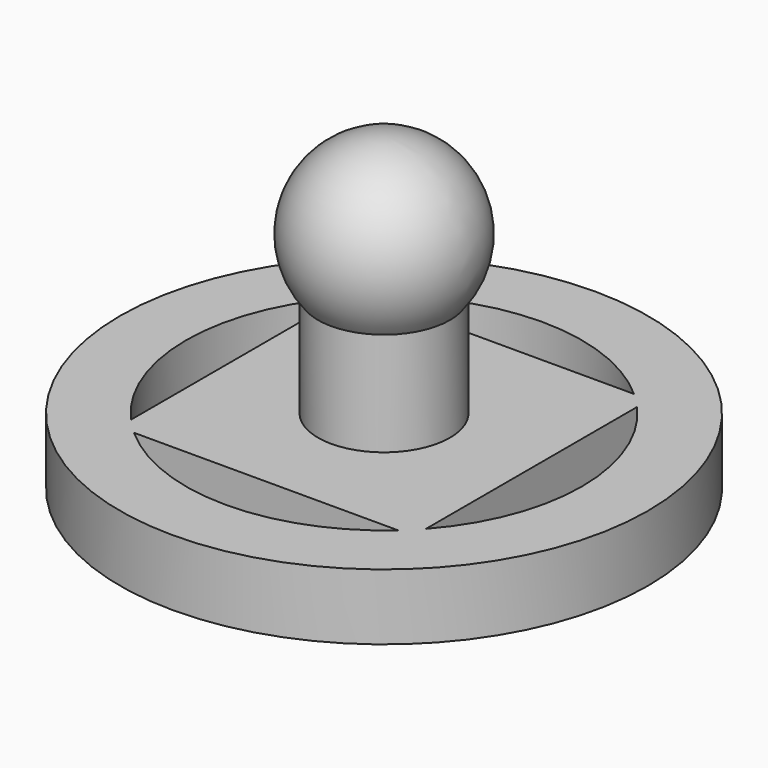
from build123d import *

# Parameters (mm, degrees)
SKETCH001_R       = 20
PAD001_DEPTH      = 5
CYLINDER012_R     = 5
CYLINDER012_DEPTH = 15


with BuildPart() as pad001:
    # Sketch001 → Pad001 (new body)
    with BuildSketch(Plane.XY):
        Circle(SKETCH001_R)
        with BuildLine():
            ThreePointArc((11.18034, -10), (15, 0), (11.18034, 10))
            Line((11.18034, 10), (11.18034, -10))
        make_face(mode=Mode.SUBTRACT)
        with BuildLine():
            ThreePointArc((-11.18034, 10), (-15, 0), (-11.18034, -10))
            Line((-11.18034, 10), (-11.18034, -10))
        make_face(mode=Mode.SUBTRACT)
        with BuildLine():
            ThreePointArc((10, 11.18034), (0, 15), (-10, 11.18034))
            Line((-10, 11.18034), (10, 11.18034))
        make_face(mode=Mode.SUBTRACT)
        with BuildLine():
            ThreePointArc((-10, -11.18034), (0, -15), (10, -11.18034))
            Line((-10, -11.18034), (10, -11.18034))
        make_face(mode=Mode.SUBTRACT)
    extrude(amount=PAD001_DEPTH)


with BuildPart() as sphere001:
    # Sphere001 → Sphere001 (revolve)
    with BuildSketch(Plane(origin=(0, 0, 17), x_dir=(1, 0, 0), z_dir=(0, -1, 0))):
        with BuildLine():
            ThreePointArc((0, -6.5), (6.5, 0), (0, 6.5))
            Line((0, 6.5), (0, -6.5))
        make_face()
    revolve(axis=Axis((0, 0, 17), (0, 0, 1)))


with BuildPart() as clone_of_piezacirculo002:
    # Cylinder012 → Cylinder012 (new body)
    with BuildSketch(Plane.XY):
        Circle(CYLINDER012_R)
    extrude(amount=CYLINDER012_DEPTH)

    # Fusion018: union Pad001, Sphere001
    add(pad001.part)
    add(sphere001.part)


with BuildPart() as clone_of_piezacirculo002_1:
    # Clone022 placement: moved
    add(clone_of_piezacirculo002.part.moved(Location((60, 60, 21.5))))


solid = clone_of_piezacirculo002_1.part
